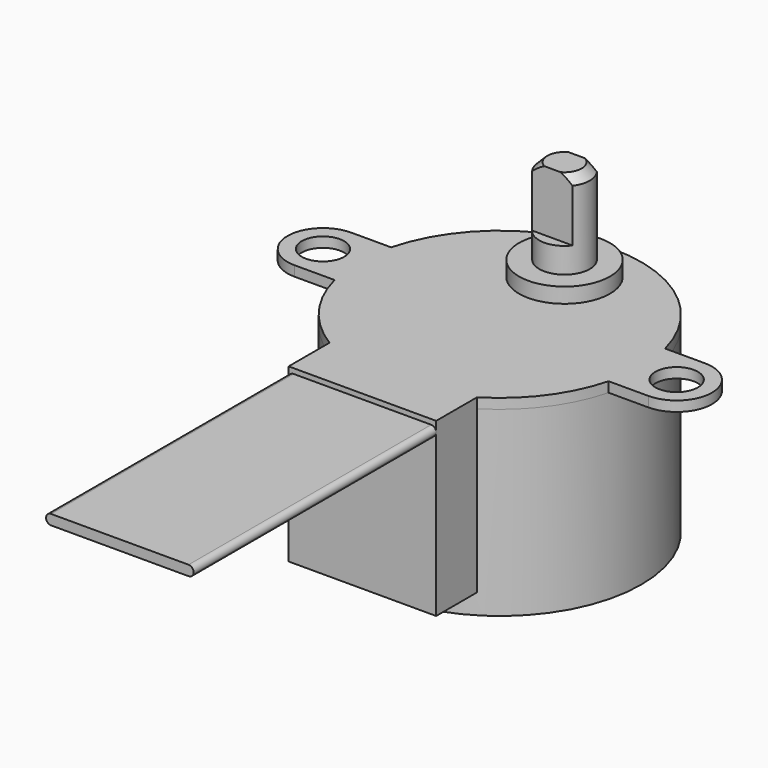
from build123d import *

# Parameters (mm, degrees)
SKETCH_R     = 2.1
PAD_DEPTH    = 1
SKETCH001_R  = 14
PAD001_DEPTH = 18
POCKET_DEPTH = 6
PAD002_DEPTH = 17
PAD003_DEPTH = 30


with BuildPart() as part:
    # Sketch → Pad (new body)
    with BuildSketch(Plane.XY):
        with BuildLine():
            ThreePointArc((13.555442, 3.5), (0, 14), (-13.555442, 3.5))
            Line((-17.5, 3.5), (-13.555442, 3.5))
            ThreePointArc((-17.5, 3.5), (-21, 0), (-17.5, -3.5))
            Line((-17.5, -3.5), (-13.555442, -3.5))
            ThreePointArc((-13.555442, -3.5), (0, -14), (13.555442, -3.5))
            Line((13.555442, -3.5), (17.5, -3.5))
            ThreePointArc((17.5, -3.5), (21, 0), (17.5, 3.5))
            Line((13.555442, 3.5), (17.5, 3.5))
        make_face()
        with Locations((-17.5, 0)):
            Circle(SKETCH_R, mode=Mode.SUBTRACT)
        with Locations((17.5, 0)):
            Circle(SKETCH_R, mode=Mode.SUBTRACT)
    extrude(amount=-PAD_DEPTH)

    # Sketch001 (on Face12 of Pad) → Pad001 (join)
    with BuildSketch(Plane(origin=(0, 0, -1), x_dir=(1, 0, 0), z_dir=(0, 0, -1))):
        Circle(SKETCH001_R)
    extrude(amount=PAD001_DEPTH)

    # Sketch002 → Revolution (revolve)
    with BuildSketch(Plane.XZ.offset(-8)):
        Polygon((0, 0), (4.5, 0), (4.5, 1.5), (2.5, 1.5), (2.5, 9.2), (1.7, 10), (0, 10), align=None)
    revolve(axis=Axis((0, 8, 0), (0, 0, 1)))

    # Sketch003 (on Face20 of Revolution) → Pocket (cut)
    with BuildSketch(Plane.XY.offset(10)):
        with BuildLine():
            ThreePointArc((2.598076, 9.5), (0, 11), (-2.598076, 9.5))
            Line((-2.598076, 9.5), (2.598076, 9.5))
        make_face()
        with BuildLine():
            Line((2.598076, 6.5), (-2.598076, 6.5))
            ThreePointArc((-2.598076, 6.5), (0, 5), (2.598076, 6.5))
        make_face()
    extrude(amount=-POCKET_DEPTH, mode=Mode.SUBTRACT)

    # Sketch004 → Pad002 (join)
    with BuildSketch(Plane.XY):
        with BuildLine():
            ThreePointArc((-7.3, -11.946129), (0, -14), (7.3, -11.946129))
            Line((7.3, -11.946129), (7.3, -17))
            Line((7.3, -17), (-7.3, -17))
            Line((-7.3, -17), (-7.3, -11.946129))
        make_face()
    extrude(amount=-PAD002_DEPTH)

    # Sketch005 (on Face22 of Pad002) → Pad003 (join)
    with BuildSketch(Plane.XZ.offset(17)):
        with BuildLine():
            ThreePointArc((-6.8, -0.5), (-7.3, -1), (-6.8, -1.5))
            Line((-6.8, -1.5), (6.8, -1.5))
            ThreePointArc((6.8, -1.5), (7.3, -1), (6.8, -0.5))
            Line((-6.8, -0.5), (6.8, -0.5))
        make_face()
    extrude(amount=PAD003_DEPTH)


with BuildPart() as part_1:
    # Body001 placement: moved
    add(part.part.moved(Location((0, -8, -1.7))))


solid = part_1.part
